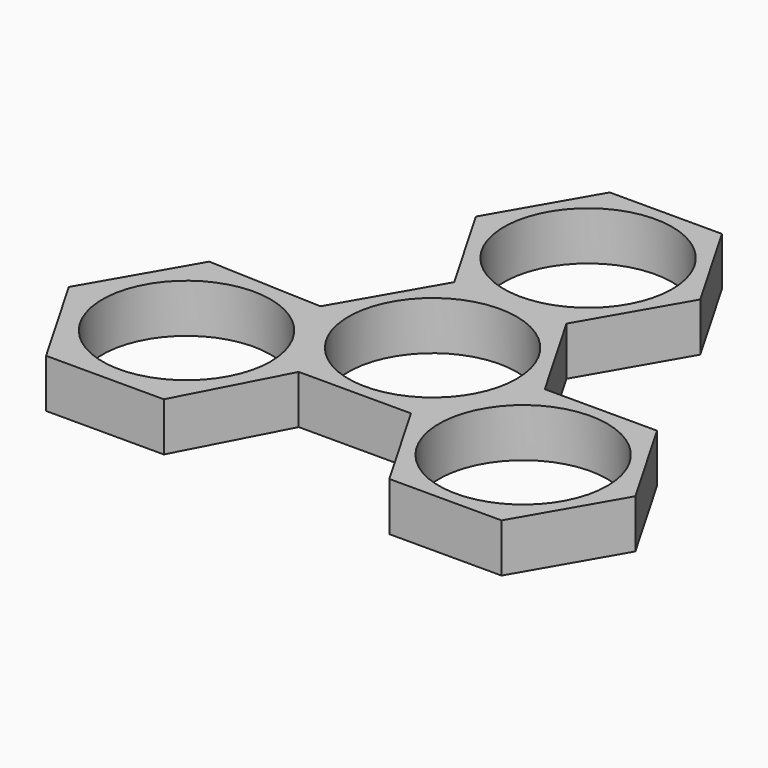
from build123d import *

# Parameters (mm, degrees)
F0_R     = 10.9982
F1_DEPTH = 6.35


with BuildPart() as f1:
    # F0 (on Top) → F1 (new body)
    with BuildSketch(Plane.XY):
        Polygon((-7.332348, -12.7), (7.332348, -12.7), (14.664697, -25.4), (29.329394, -25.4), (36.661742, -12.7), (29.329394, 0), (14.664697, 0), (7.332348, 12.7), (14.664697, 25.4), (7.332348, 38.1), (-7.332348, 38.1), (-14.664697, 25.4), (-7.332348, 12.7), (-14.664697, 0), (-29.690504, 0.625461), (-37.383962, -12.7), (-29.690504, -26.025461), (-14.303587, -26.025461), align=None)
        with Locations((-21.997045, -12.7)):
            Circle(F0_R, mode=Mode.SUBTRACT)
        with Locations((21.997045, -12.7)):
            Circle(F0_R, mode=Mode.SUBTRACT)
        Circle(F0_R, mode=Mode.SUBTRACT)
        with Locations((0, 25.4)):
            Circle(F0_R, mode=Mode.SUBTRACT)
    extrude(amount=-F1_DEPTH)


solid = f1.part
